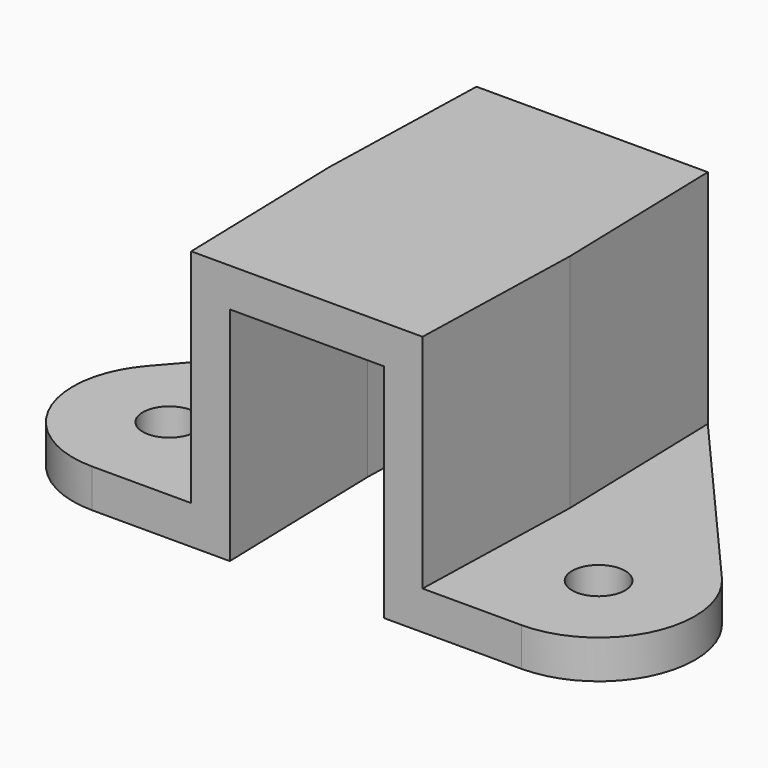
from build123d import *

# Parameters (mm, degrees)
F0_R     = 2.75
F1_DEPTH = 4
F2_DEPTH = 23
F3_START = 23
F3_DEPTH = 4


with BuildPart() as f1:
    # F0 (on Top) → F1 (new body)
    with BuildSketch(Plane.XY):
        with BuildLine():
            Line((12.5014606537, 18.5), (12.0014606537, 0))
            Line((12.0014606537, 0), (22.2753825582, 0))
            ThreePointArc((22.2753825582, 0), (31.378069952, 5.859820993), (29.8127336093, 16.571783558))
            Line((29.8127336093, 16.571783558), (12.0014606537, 37))
            Line((12.0014606537, 37), (12.5014606537, 18.5))
        make_face()
        with Locations((22.2753825582, 10)):
            Circle(F0_R, mode=Mode.SUBTRACT)
    extrude(amount=F1_DEPTH)

    # F0 (on Top) → F2, piece 2 (join)
    with BuildSketch(Plane.XY):
        Polygon((8.5, 18.5), (8, 0), (12.0014606537, 0), (12.5014606537, 18.5), (12.0014606537, 37), (8, 37), align=None)
    extrude(amount=F2_DEPTH)



with BuildPart() as f1b:
    # F0 (on Top) → F1, piece 2 (new body)
    with BuildSketch(Plane.XY):
        with BuildLine():
            ThreePointArc((-29.8127336093, 16.571783558), (-31.378069952, 5.859820993), (-22.2753825582, 0))
            Line((-22.2753825582, 0), (-12.0014606537, 0))
            Line((-12.0014606537, 0), (-12.5014606537, 18.5))
            Line((-12.5014606537, 18.5), (-12.0014606537, 37))
            Line((-12.0014606537, 37), (-29.8127336093, 16.571783558))
        make_face()
        with Locations((-22.2753825582, 10)):
            Circle(F0_R, mode=Mode.SUBTRACT)
    extrude(amount=F1_DEPTH)

    # F0 (on Top) → F2 (join)
    with BuildSketch(Plane.XY):
        Polygon((-12.5014606537, 18.5), (-12.0014606537, 0), (-8, 0), (-8.5, 18.5), (-8, 37), (-12.0014606537, 37), align=None)
    extrude(amount=F2_DEPTH)


with BuildPart() as f1_1:
    add(f1.part)

    add(f1b.part)  # F3 merges F1b
    # F0 (on Top) → F3 (join)
    with BuildSketch(Plane.XY.offset(F3_START)):
        Polygon((-8.5, 18.5), (-8, 0), (8, 0), (8.5, 18.5), (8, 37), (-8, 37), align=None)
        Polygon((-12.5014606537, 18.5), (-12.0014606537, 0), (-8, 0), (-8.5, 18.5), (-8, 37), (-12.0014606537, 37), align=None)
        Polygon((8.5, 18.5), (8, 0), (12.0014606537, 0), (12.5014606537, 18.5), (12.0014606537, 37), (8, 37), align=None)
    extrude(amount=F3_DEPTH)


solid = f1_1.part
